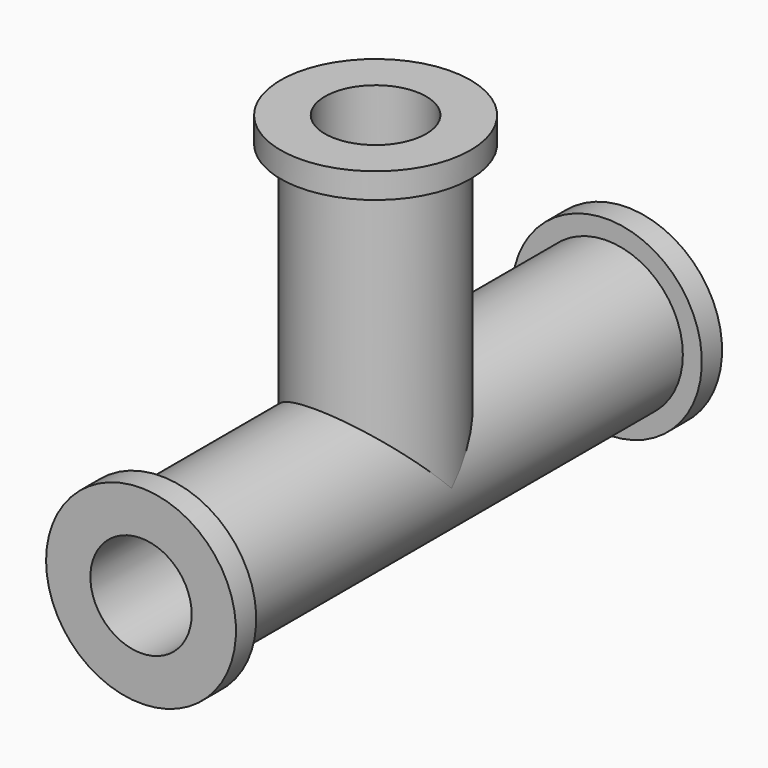
from build123d import *

# Parameters (mm, degrees)
F2_R      = 76.2
F5_DEPTH  = 609.6
F4_R      = 76.2
F6_DEPTH  = 304.8
F7_T      = -25.4
F7_2_T    = -25.4
F9_R      = 95.25
F9_R_2    = 76.2
F10_DEPTH = 25.4
F12_R     = 95.25
F12_R_2   = 76.2
F13_DEPTH = 25.4
F14_R     = 95.25
F14_R_2   = 76.2
F15_DEPTH = 25.4


with BuildPart() as f5:
    # F2 (on plane+point) → F5 (new body)
    with BuildSketch(Plane.XZ.offset(294.1361665726)):
        Circle(F2_R)
    extrude(amount=-F5_DEPTH)

    # F7
    f7_openings = [f5.faces().sort_by_distance(p)[0] for p in [
        (0, 315.463833, 0),
        (0, -294.136167, 0),
    ]]
    offset(amount=F7_T, openings=f7_openings)

    # F9 (on line) → F10 (join)
    with BuildSketch(Plane(origin=(0, -294.1361665726, 0), x_dir=(-1, 0, 0), z_dir=(0, 1, 0))):
        Circle(F9_R)
        Circle(F9_R_2, mode=Mode.SUBTRACT)
    extrude(amount=F10_DEPTH)

    # F12 (on line) → F13 (join)
    with BuildSketch(Plane(origin=(0, 315.4638334274, 0), x_dir=(-1, 0, 0), z_dir=(0, 1, 0))):
        Circle(F12_R)
        Circle(F12_R_2, mode=Mode.SUBTRACT)
    extrude(amount=-F13_DEPTH)



with BuildPart() as f6:
    # F4 (on plane+point) → F6 (new body)
    with BuildSketch(Plane.XY.offset(304.8)):
        Circle(F4_R)
    extrude(amount=-F6_DEPTH)

    # F7#2
    f7_2_openings = [f6.faces().sort_by_distance(p)[0] for p in [
        (0, 0, 304.8),
    ]]
    offset(amount=F7_2_T, openings=f7_2_openings)


with BuildPart() as f5_1:
    add(f5.part)

    add(f6.part)  # F15 merges F6
    # F14 (on plane+point) → F15 (join)
    with BuildSketch(Plane.XY.offset(304.8)):
        Circle(F14_R)
        Circle(F14_R_2, mode=Mode.SUBTRACT)
    extrude(amount=-F15_DEPTH)


solid = f5_1.part
